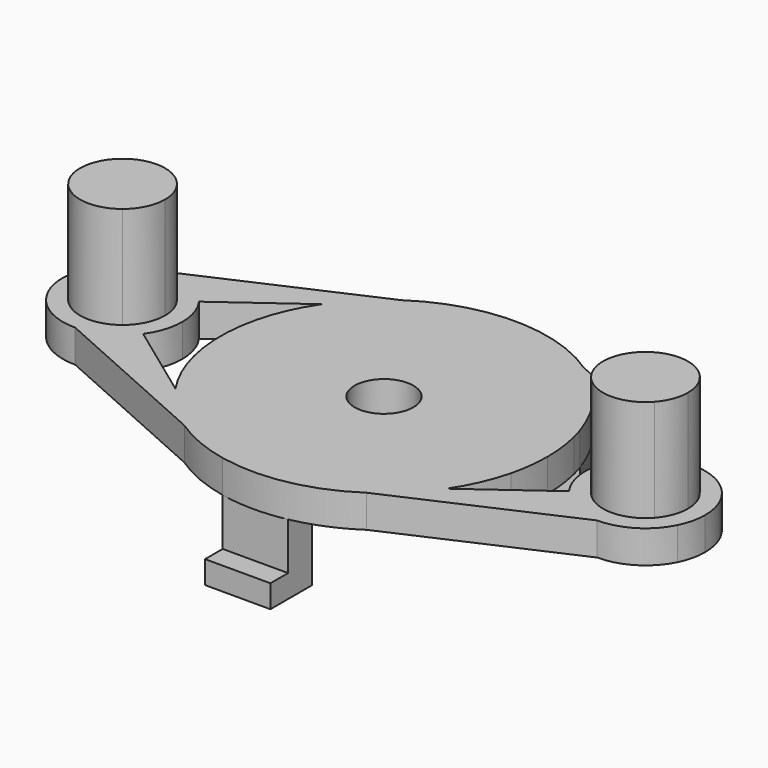
from build123d import *

# Parameters (mm, degrees)
F0_R      = 1.8
F1_DEPTH  = 2
F2_DEPTH  = 8.25
F3_DEPTH  = 4.3
F4_W      = 4
F4_H      = 1.4
F5_DEPTH  = 1.35
F6_W      = 4
F6_H      = 1.4
F7_DEPTH  = 1.4
F8_W      = 4
F8_H      = 1.4
F9_DEPTH  = 1.35
F10_SCALE = 0.83


with BuildPart() as f1:
    # F0 (on Top) → F1 (new body)
    with BuildSketch(Plane.XY):
        with BuildLine():
            ThreePointArc((-15.9731018348, 3.6568268038), (-14.320799056, 3.2485981552), (-13.0322288298, 2.1366890427))
            Line((-13.0322288298, 2.1366890427), (-8.2881369278, 5.5952467565))
            ThreePointArc((-8.2881369278, 5.5952467565), (-7.8912200061, 6.1423649204), (-7.4582495736, 6.6614197659))
            ThreePointArc((-7.4582495736, 6.6614197659), (-6.5699540858, 7.5389457691), (-5.57922508, 8.2989305038))
            Line((-5.57922508, 8.2989305038), (-15.9731018348, 3.6568268038))
        make_face()
        with BuildLine():
            ThreePointArc((6.5777370937, 4.553391563), (0, 8), (-6.5777370937, 4.553391563))
            Line((-6.5777370937, 4.553391563), (-7.2322213138, 3.4197916411))
            ThreePointArc((-7.2322213138, 3.4197916411), (-6.9282032303, -4), (-0.6544842201, -7.9731832041))
            Line((-0.6544842201, -7.9731832041), (0.6544842201, -7.9731832041))
            ThreePointArc((0.6544842201, -7.9731832041), (5.883700951, -5.4205224028), (8, 0))
            ThreePointArc((8, 0), (7.8056956932, 1.7524596272), (7.2322213138, 3.4197916411))
            Line((7.2322213138, 3.4197916411), (6.5777370937, 4.553391563))
        make_face()
        Circle(F0_R, mode=Mode.SUBTRACT)
        with BuildLine():
            Line((-8.2881369278, -5.5952467565), (-13.0322288298, -2.1366890427))
            ThreePointArc((-13.0322288298, -2.1366890427), (-14.320799056, -3.2485981552), (-15.9731018348, -3.6568268038))
            Line((-15.9731018348, -3.6568268038), (-5.57922508, -8.2989305038))
            ThreePointArc((-5.57922508, -8.2989305038), (-7.0642344748, -7.0778945517), (-8.2881369278, -5.5952467565))
        make_face()
        with BuildLine():
            Line((-13.0322288298, -2.1366890427), (-14.3729098782, -2.0279491452))
            ThreePointArc((-14.3729098782, -2.0279491452), (-16.2101904462, -2.5914899144), (-17.9326380631, -1.7392268733))
            Line((-17.9326380631, -1.7392268733), (-19.2733191115, -1.6304869758))
            ThreePointArc((-19.2733191115, -1.6304869758), (-17.9134590444, -3.1163729349), (-15.9731018348, -3.6568268038))
            ThreePointArc((-15.9731018348, -3.6568268038), (-14.320799056, -3.2485981552), (-13.0322288298, -2.1366890427))
        make_face()
        with BuildLine():
            ThreePointArc((-17.9326380631, -1.7392268733), (-18.6, 0), (-17.9326380631, 1.7392268733))
            Line((-17.9326380631, 1.7392268733), (-19.2733191115, 1.6304869758))
            ThreePointArc((-19.2733191115, 1.6304869758), (-19.6569257285, 0), (-19.2733191115, -1.6304869758))
            Line((-19.2733191115, -1.6304869758), (-17.9326380631, -1.7392268733))
        make_face()
        with BuildLine():
            ThreePointArc((-17.9326380631, 1.7392268733), (-16.2101904462, 2.5914899144), (-14.3729098782, 2.0279491452))
            Line((-14.3729098782, 2.0279491452), (-13.0322288298, 2.1366890427))
            ThreePointArc((-13.0322288298, 2.1366890427), (-14.320799056, 3.2485981552), (-15.9731018348, 3.6568268038))
            ThreePointArc((-15.9731018348, 3.6568268038), (-17.9134590444, 3.1163729349), (-19.2733191115, 1.6304869758))
            Line((-19.2733191115, 1.6304869758), (-17.9326380631, 1.7392268733))
        make_face()
        with BuildLine():
            ThreePointArc((-14.3729098782, 2.0279491452), (-13.6558120471, 1.1246256451), (-13.4, 0))
            ThreePointArc((-13.4, 0), (-13.6558120471, -1.1246256451), (-14.3729098782, -2.0279491452))
            Line((-14.3729098782, -2.0279491452), (-13.0322288298, -2.1366890427))
            ThreePointArc((-13.0322288298, -2.1366890427), (-12.5196246946, -1.1225388713), (-12.3430742715, 0))
            ThreePointArc((-12.3430742715, 0), (-12.5196246946, 1.1225388713), (-13.0322288298, 2.1366890427))
            Line((-13.0322288298, 2.1366890427), (-14.3729098782, 2.0279491452))
        make_face()
        with BuildLine():
            ThreePointArc((8.2881369278, -5.5952467565), (7.0642344748, -7.0778945517), (5.57922508, -8.2989305038))
            Line((5.57922508, -8.2989305038), (15.9731018348, -3.6568268038))
            ThreePointArc((15.9731018348, -3.6568268038), (14.320799056, -3.2485981552), (13.0322288298, -2.1366890427))
            Line((13.0322288298, -2.1366890427), (8.2881369278, -5.5952467565))
        make_face()
        with BuildLine():
            Line((15.9731018348, 3.6568268038), (5.57922508, 8.2989305038))
            ThreePointArc((5.57922508, 8.2989305038), (7.0642344748, 7.0778945517), (8.2881369278, 5.5952467565))
            Line((8.2881369278, 5.5952467565), (13.0322288298, 2.1366890427))
            ThreePointArc((13.0322288298, 2.1366890427), (14.320799056, 3.2485981552), (15.9731018348, 3.6568268038))
        make_face()
        with BuildLine():
            ThreePointArc((19.2733191115, 1.6304869758), (17.9134590444, 3.1163729349), (15.9731018348, 3.6568268038))
            ThreePointArc((15.9731018348, 3.6568268038), (14.320799056, 3.2485981552), (13.0322288298, 2.1366890427))
            Line((13.0322288298, 2.1366890427), (14.3729098782, 2.0279491452))
            ThreePointArc((14.3729098782, 2.0279491452), (16.2101904462, 2.5914899144), (17.9326380631, 1.7392268733))
            Line((17.9326380631, 1.7392268733), (19.2733191115, 1.6304869758))
        make_face()
        with BuildLine():
            Line((14.3729098782, 2.0279491452), (13.0322288298, 2.1366890427))
            ThreePointArc((13.0322288298, 2.1366890427), (12.3430742715, 0), (13.0322288298, -2.1366890427))
            Line((13.0322288298, -2.1366890427), (14.3729098782, -2.0279491452))
            ThreePointArc((14.3729098782, -2.0279491452), (13.4, 0), (14.3729098782, 2.0279491452))
        make_face()
        with BuildLine():
            ThreePointArc((13.0322288298, -2.1366890427), (14.320799056, -3.2485981552), (15.9731018348, -3.6568268038))
            ThreePointArc((15.9731018348, -3.6568268038), (17.9134590444, -3.1163729349), (19.2733191115, -1.6304869758))
            Line((19.2733191115, -1.6304869758), (17.9326380631, -1.7392268733))
            ThreePointArc((17.9326380631, -1.7392268733), (16.2101904462, -2.5914899144), (14.3729098782, -2.0279491452))
            Line((14.3729098782, -2.0279491452), (13.0322288298, -2.1366890427))
        make_face()
        with BuildLine():
            ThreePointArc((19.6569257285, 0), (19.5597324802, 0.8375025097), (19.2733191115, 1.6304869758))
            Line((19.2733191115, 1.6304869758), (17.9326380631, 1.7392268733))
            ThreePointArc((17.9326380631, 1.7392268733), (18.4274326936, 0.9314346558), (18.6, 0))
            ThreePointArc((18.6, 0), (18.4274326936, -0.9314346558), (17.9326380631, -1.7392268733))
            Line((17.9326380631, -1.7392268733), (19.2733191115, -1.6304869758))
            ThreePointArc((19.2733191115, -1.6304869758), (19.5597324802, -0.8375025097), (19.6569257285, 0))
        make_face()
        with BuildLine():
            Line((1.9601660443, -9.7897434815), (-2.0398339557, -9.7897434815))
            ThreePointArc((-2.0398339557, -9.7897434815), (1.9202742555, -9.8138955967), (5.57922508, -8.2989305038))
            ThreePointArc((5.57922508, -8.2989305038), (7.0642344748, -7.0778945517), (8.2881369278, -5.5952467565))
            ThreePointArc((8.2881369278, -5.5952467565), (9.1373129578, -4.0631898691), (9.7061289754, -2.4064621985))
            ThreePointArc((9.7061289754, -2.4064621985), (9.9262603672, -1.2121695933), (10, 0))
            ThreePointArc((10, 0), (9.9262603672, 1.2121695933), (9.7061289754, 2.4064621985))
            ThreePointArc((9.7061289754, 2.4064621985), (9.6088873182, 2.7693473068), (9.4980835293, 3.1283237156))
            Line((9.4980835293, 3.1283237156), (7.9248961816, 2.2200435769))
            Line((7.9248961816, 2.2200435769), (7.2322213138, 3.4197916411))
            ThreePointArc((7.2322213138, 3.4197916411), (7.8056956932, 1.7524596272), (8, 0))
            ThreePointArc((8, 0), (5.883700951, -5.4205224028), (0.6544842201, -7.9731832041))
            Line((0.6544842201, -7.9731832041), (1.9601660443, -7.9731832041))
            Line((1.9601660443, -7.9731832041), (1.9601660443, -9.7897434815))
        make_face()
        with BuildLine():
            ThreePointArc((-8.2881369278, 5.5952467565), (-9.1373129578, 4.0631898691), (-9.7061289754, 2.4064621985))
            ThreePointArc((-9.7061289754, 2.4064621985), (-10, 0), (-9.7061289754, -2.4064621985))
            ThreePointArc((-9.7061289754, -2.4064621985), (-9.1373129578, -4.0631898691), (-8.2881369278, -5.5952467565))
            ThreePointArc((-8.2881369278, -5.5952467565), (-7.0642344748, -7.0778945517), (-5.57922508, -8.2989305038))
            ThreePointArc((-5.57922508, -8.2989305038), (-3.8817709851, -9.2158479816), (-2.0398339557, -9.7897434815))
            Line((-2.0398339557, -9.7897434815), (-2.0398339557, -7.9731832041))
            Line((-2.0398339557, -7.9731832041), (-0.6544842201, -7.9731832041))
            ThreePointArc((-0.6544842201, -7.9731832041), (-6.9282032303, -4), (-7.2322213138, 3.4197916411))
            Line((-7.2322213138, 3.4197916411), (-7.8850622259, 2.289038012))
            Line((-7.8850622259, 2.289038012), (-9.4582495736, 3.1973181507))
            Line((-9.4582495736, 3.1973181507), (-7.4582495736, 6.6614197659))
            ThreePointArc((-7.4582495736, 6.6614197659), (-7.8912200061, 6.1423649204), (-8.2881369278, 5.5952467565))
        make_face()
        with BuildLine():
            Line((1.9601660443, -9.7897434815), (-2.0398339557, -9.7897434815))
            ThreePointArc((-2.0398339557, -9.7897434815), (1.9202742555, -9.8138955967), (5.57922508, -8.2989305038))
            ThreePointArc((5.57922508, -8.2989305038), (7.0642344748, -7.0778945517), (8.2881369278, -5.5952467565))
            ThreePointArc((8.2881369278, -5.5952467565), (9.1373129578, -4.0631898691), (9.7061289754, -2.4064621985))
            ThreePointArc((9.7061289754, -2.4064621985), (9.9262603672, -1.2121695933), (10, 0))
            ThreePointArc((10, 0), (9.9262603672, 1.2121695933), (9.7061289754, 2.4064621985))
            ThreePointArc((9.7061289754, 2.4064621985), (9.6088873182, 2.7693473068), (9.4980835293, 3.1283237156))
            Line((9.4980835293, 3.1283237156), (7.9248961816, 2.2200435769))
            Line((7.9248961816, 2.2200435769), (7.2322213138, 3.4197916411))
            ThreePointArc((7.2322213138, 3.4197916411), (7.8056956932, 1.7524596272), (8, 0))
            ThreePointArc((8, 0), (5.883700951, -5.4205224028), (0.6544842201, -7.9731832041))
            Line((0.6544842201, -7.9731832041), (1.9601660443, -7.9731832041))
            Line((1.9601660443, -7.9731832041), (1.9601660443, -9.7897434815))
        make_face()
        with BuildLine():
            ThreePointArc((5.57922508, 8.2989305038), (0, 10), (-5.57922508, 8.2989305038))
            ThreePointArc((-5.57922508, 8.2989305038), (-6.5699540858, 7.5389457691), (-7.4582495736, 6.6614197659))
            Line((-7.4582495736, 6.6614197659), (-5.8850622259, 5.7531396272))
            Line((-5.8850622259, 5.7531396272), (-6.5777370937, 4.553391563))
            ThreePointArc((-6.5777370937, 4.553391563), (0, 8), (6.5777370937, 4.553391563))
            Line((6.5777370937, 4.553391563), (5.9248961816, 5.684145192))
            Line((5.9248961816, 5.684145192), (7.4980835293, 6.5924253307))
            Line((7.4980835293, 6.5924253307), (9.4980835293, 3.1283237156))
            ThreePointArc((9.4980835293, 3.1283237156), (8.9782424149, 4.403539842), (8.2881369278, 5.5952467565))
            ThreePointArc((8.2881369278, 5.5952467565), (7.0642344748, 7.0778945517), (5.57922508, 8.2989305038))
        make_face()
        with BuildLine():
            ThreePointArc((-8.2881369278, 5.5952467565), (-9.1373129578, 4.0631898691), (-9.7061289754, 2.4064621985))
            ThreePointArc((-9.7061289754, 2.4064621985), (-10, 0), (-9.7061289754, -2.4064621985))
            ThreePointArc((-9.7061289754, -2.4064621985), (-9.1373129578, -4.0631898691), (-8.2881369278, -5.5952467565))
            ThreePointArc((-8.2881369278, -5.5952467565), (-7.0642344748, -7.0778945517), (-5.57922508, -8.2989305038))
            ThreePointArc((-5.57922508, -8.2989305038), (-3.8817709851, -9.2158479816), (-2.0398339557, -9.7897434815))
            Line((-2.0398339557, -9.7897434815), (-2.0398339557, -7.9731832041))
            Line((-2.0398339557, -7.9731832041), (-0.6544842201, -7.9731832041))
            ThreePointArc((-0.6544842201, -7.9731832041), (-6.9282032303, -4), (-7.2322213138, 3.4197916411))
            Line((-7.2322213138, 3.4197916411), (-7.8850622259, 2.289038012))
            Line((-7.8850622259, 2.289038012), (-9.4582495736, 3.1973181507))
            Line((-9.4582495736, 3.1973181507), (-7.4582495736, 6.6614197659))
            ThreePointArc((-7.4582495736, 6.6614197659), (-7.8912200061, 6.1423649204), (-8.2881369278, 5.5952467565))
        make_face()
        with BuildLine():
            Line((1.9601660443, -9.7897434815), (-2.0398339557, -9.7897434815))
            ThreePointArc((-2.0398339557, -9.7897434815), (1.9202742555, -9.8138955967), (5.57922508, -8.2989305038))
            ThreePointArc((5.57922508, -8.2989305038), (7.0642344748, -7.0778945517), (8.2881369278, -5.5952467565))
            ThreePointArc((8.2881369278, -5.5952467565), (9.1373129578, -4.0631898691), (9.7061289754, -2.4064621985))
            ThreePointArc((9.7061289754, -2.4064621985), (9.9262603672, -1.2121695933), (10, 0))
            ThreePointArc((10, 0), (9.9262603672, 1.2121695933), (9.7061289754, 2.4064621985))
            ThreePointArc((9.7061289754, 2.4064621985), (9.6088873182, 2.7693473068), (9.4980835293, 3.1283237156))
            Line((9.4980835293, 3.1283237156), (7.9248961816, 2.2200435769))
            Line((7.9248961816, 2.2200435769), (7.2322213138, 3.4197916411))
            ThreePointArc((7.2322213138, 3.4197916411), (7.8056956932, 1.7524596272), (8, 0))
            ThreePointArc((8, 0), (5.883700951, -5.4205224028), (0.6544842201, -7.9731832041))
            Line((0.6544842201, -7.9731832041), (1.9601660443, -7.9731832041))
            Line((1.9601660443, -7.9731832041), (1.9601660443, -9.7897434815))
        make_face()
        with BuildLine():
            ThreePointArc((5.57922508, 8.2989305038), (0, 10), (-5.57922508, 8.2989305038))
            ThreePointArc((-5.57922508, 8.2989305038), (-6.5699540858, 7.5389457691), (-7.4582495736, 6.6614197659))
            Line((-7.4582495736, 6.6614197659), (-5.8850622259, 5.7531396272))
            Line((-5.8850622259, 5.7531396272), (-6.5777370937, 4.553391563))
            ThreePointArc((-6.5777370937, 4.553391563), (0, 8), (6.5777370937, 4.553391563))
            Line((6.5777370937, 4.553391563), (5.9248961816, 5.684145192))
            Line((5.9248961816, 5.684145192), (7.4980835293, 6.5924253307))
            Line((7.4980835293, 6.5924253307), (9.4980835293, 3.1283237156))
            ThreePointArc((9.4980835293, 3.1283237156), (8.9782424149, 4.403539842), (8.2881369278, 5.5952467565))
            ThreePointArc((8.2881369278, 5.5952467565), (7.0642344748, 7.0778945517), (5.57922508, 8.2989305038))
        make_face()
        with BuildLine():
            Line((-2.0398339557, -7.9731832041), (-2.0398339557, -9.7897434815))
            Line((-2.0398339557, -9.7897434815), (1.9601660443, -9.7897434815))
            Line((1.9601660443, -9.7897434815), (1.9601660443, -7.9731832041))
            Line((1.9601660443, -7.9731832041), (0.6544842201, -7.9731832041))
            ThreePointArc((0.6544842201, -7.9731832041), (0, -8), (-0.6544842201, -7.9731832041))
            Line((-0.6544842201, -7.9731832041), (-2.0398339557, -7.9731832041))
        make_face()
        with BuildLine():
            Line((-5.8850622259, 5.7531396272), (-7.4582495736, 6.6614197659))
            Line((-7.4582495736, 6.6614197659), (-9.4582495736, 3.1973181507))
            Line((-9.4582495736, 3.1973181507), (-7.8850622259, 2.289038012))
            Line((-7.8850622259, 2.289038012), (-7.2322213138, 3.4197916411))
            ThreePointArc((-7.2322213138, 3.4197916411), (-6.9282032303, 4), (-6.5777370937, 4.553391563))
            Line((-6.5777370937, 4.553391563), (-5.8850622259, 5.7531396272))
        make_face()
        with BuildLine():
            Line((7.9248961816, 2.2200435769), (9.4980835293, 3.1283237156))
            Line((9.4980835293, 3.1283237156), (7.4980835293, 6.5924253307))
            Line((7.4980835293, 6.5924253307), (5.9248961816, 5.684145192))
            Line((5.9248961816, 5.684145192), (6.5777370937, 4.553391563))
            ThreePointArc((6.5777370937, 4.553391563), (6.9282032303, 4), (7.2322213138, 3.4197916411))
            Line((7.2322213138, 3.4197916411), (7.9248961816, 2.2200435769))
        make_face()
        with BuildLine():
            Line((0.6544842201, -7.9731832041), (-0.6544842201, -7.9731832041))
            ThreePointArc((-0.6544842201, -7.9731832041), (0, -8), (0.6544842201, -7.9731832041))
        make_face()
        with BuildLine():
            Line((-7.2322213138, 3.4197916411), (-6.5777370937, 4.553391563))
            ThreePointArc((-6.5777370937, 4.553391563), (-6.9282032303, 4), (-7.2322213138, 3.4197916411))
        make_face()
        with BuildLine():
            ThreePointArc((7.2322213138, 3.4197916411), (6.9282032303, 4), (6.5777370937, 4.553391563))
            Line((6.5777370937, 4.553391563), (7.2322213138, 3.4197916411))
        make_face()
    extrude(amount=F1_DEPTH)

    # F0 (on Top) → F2 (join)
    with BuildSketch(Plane.XY):
        with BuildLine():
            ThreePointArc((-14.3729098782, -2.0279491452), (-13.6558120471, -1.1246256451), (-13.4, 0))
            ThreePointArc((-13.4, 0), (-13.6558120471, 1.1246256451), (-14.3729098782, 2.0279491452))
            Line((-14.3729098782, 2.0279491452), (-17.9326380631, 1.7392268733))
            ThreePointArc((-17.9326380631, 1.7392268733), (-18.6, 0), (-17.9326380631, -1.7392268733))
            Line((-17.9326380631, -1.7392268733), (-14.3729098782, -2.0279491452))
        make_face()
        with BuildLine():
            Line((17.9326380631, 1.7392268733), (14.3729098782, 2.0279491452))
            ThreePointArc((14.3729098782, 2.0279491452), (13.4, 0), (14.3729098782, -2.0279491452))
            Line((14.3729098782, -2.0279491452), (17.9326380631, -1.7392268733))
            ThreePointArc((17.9326380631, -1.7392268733), (18.4274326936, -0.9314346558), (18.6, 0))
            ThreePointArc((18.6, 0), (18.4274326936, 0.9314346558), (17.9326380631, 1.7392268733))
        make_face()
        with BuildLine():
            Line((-17.9326380631, 1.7392268733), (-14.3729098782, 2.0279491452))
            ThreePointArc((-14.3729098782, 2.0279491452), (-16.2101904462, 2.5914899144), (-17.9326380631, 1.7392268733))
        make_face()
        with BuildLine():
            ThreePointArc((-17.9326380631, -1.7392268733), (-16.2101904462, -2.5914899144), (-14.3729098782, -2.0279491452))
            Line((-14.3729098782, -2.0279491452), (-17.9326380631, -1.7392268733))
        make_face()
        with BuildLine():
            Line((17.9326380631, -1.7392268733), (14.3729098782, -2.0279491452))
            ThreePointArc((14.3729098782, -2.0279491452), (16.2101904462, -2.5914899144), (17.9326380631, -1.7392268733))
        make_face()
        with BuildLine():
            ThreePointArc((17.9326380631, 1.7392268733), (16.2101904462, 2.5914899144), (14.3729098782, 2.0279491452))
            Line((14.3729098782, 2.0279491452), (17.9326380631, 1.7392268733))
        make_face()
    extrude(amount=F2_DEPTH)

    # F0 (on Top) → F3 (join)
    with BuildSketch(Plane.XY):
        with BuildLine():
            Line((-5.8850622259, 5.7531396272), (-7.4582495736, 6.6614197659))
            Line((-7.4582495736, 6.6614197659), (-9.4582495736, 3.1973181507))
            Line((-9.4582495736, 3.1973181507), (-7.8850622259, 2.289038012))
            Line((-7.8850622259, 2.289038012), (-7.2322213138, 3.4197916411))
            ThreePointArc((-7.2322213138, 3.4197916411), (-6.9282032303, 4), (-6.5777370937, 4.553391563))
            Line((-6.5777370937, 4.553391563), (-5.8850622259, 5.7531396272))
        make_face()
        with BuildLine():
            Line((7.9248961816, 2.2200435769), (9.4980835293, 3.1283237156))
            Line((9.4980835293, 3.1283237156), (7.4980835293, 6.5924253307))
            Line((7.4980835293, 6.5924253307), (5.9248961816, 5.684145192))
            Line((5.9248961816, 5.684145192), (6.5777370937, 4.553391563))
            ThreePointArc((6.5777370937, 4.553391563), (6.9282032303, 4), (7.2322213138, 3.4197916411))
            Line((7.2322213138, 3.4197916411), (7.9248961816, 2.2200435769))
        make_face()
        with BuildLine():
            Line((-2.0398339557, -7.9731832041), (-2.0398339557, -9.7897434815))
            Line((-2.0398339557, -9.7897434815), (1.9601660443, -9.7897434815))
            Line((1.9601660443, -9.7897434815), (1.9601660443, -7.9731832041))
            Line((1.9601660443, -7.9731832041), (0.6544842201, -7.9731832041))
            ThreePointArc((0.6544842201, -7.9731832041), (0, -8), (-0.6544842201, -7.9731832041))
            Line((-0.6544842201, -7.9731832041), (-2.0398339557, -7.9731832041))
        make_face()
    extrude(amount=-F3_DEPTH)

    # F4 (on face) → F5 (join)
    with BuildSketch(Plane.XZ.offset(9.7897434815)):
        with Locations((-0.0398339557, -3.6)):
            Rectangle(F4_W, F4_H)
    extrude(amount=F5_DEPTH)

    # F6 (on face) → F7 (join)
    with BuildSketch(Plane(origin=(-8.4781665515, 4.8948717407, 0), x_dir=(-0.5, -0.8660254038, 0), z_dir=(-0.8660254038, 0.5, 0))):
        with Locations((-0.0398339557, -3.6)):
            Rectangle(F6_W, F6_H)
    extrude(amount=F7_DEPTH)

    # F8 (on face) → F9 (join)
    with BuildSketch(Plane(origin=(8.4781665515, 4.8948717407, 0), x_dir=(-0.5, 0.8660254038, 0), z_dir=(0.8660254038, 0.5, 0))):
        with Locations((-0.0398339557, -3.6)):
            Rectangle(F8_W, F8_H)
    extrude(amount=F9_DEPTH)


with BuildPart() as f1_1:
    # F10: moved
    add(f1.part.scale(F10_SCALE))


solid = f1_1.part
